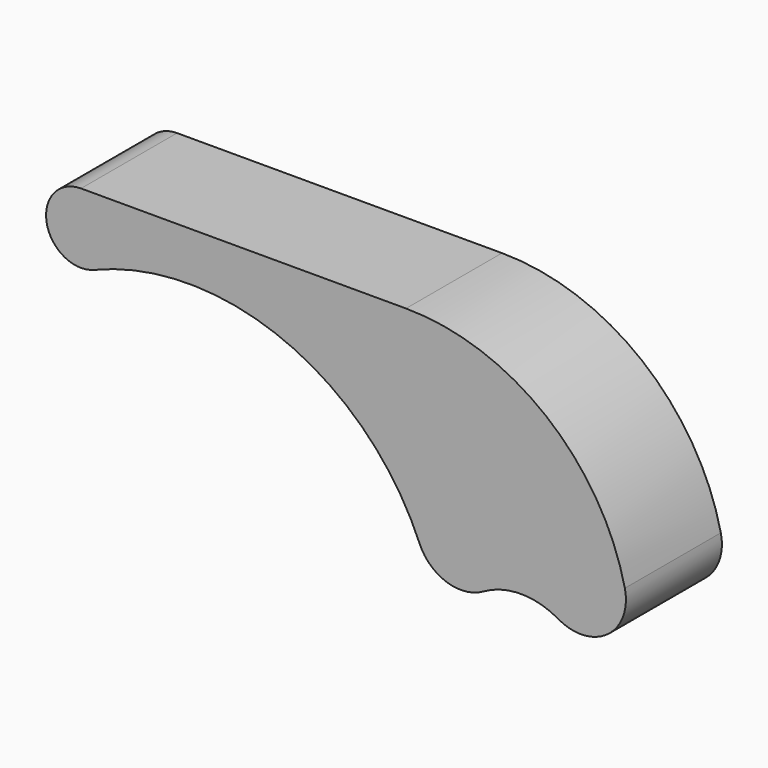
from build123d import *

# Parameters (mm, degrees)
F1_DEPTH = 24


with BuildPart() as f1:
    # F0 (on Front) → F1 (new body)
    with BuildSketch(Plane.XZ):
        with BuildLine():
            Line((15.063899, 28), (-49.936101, 28))
            ThreePointArc((-49.936101, 28), (-56.804758, 19.65035), (-47.287449, 14.520444))
            ThreePointArc((-47.287449, 14.520444), (-9.204753, 14.419615), (17.760651, -12.472184))
            ThreePointArc((17.760651, -12.472184), (23.185325, -17.527239), (30.563899, -16.794229))
            ThreePointArc((30.563899, -16.794229), (38.063899, -14.78461), (45.563899, -16.794229))
            ThreePointArc((45.563899, -16.794229), (55.397105, -16.249615), (58.844387, -7.02439))
            ThreePointArc((58.844387, -7.02439), (43.097089, 18.166488), (15.063899, 28))
        make_face()
    extrude(amount=F1_DEPTH)


solid = f1.part
